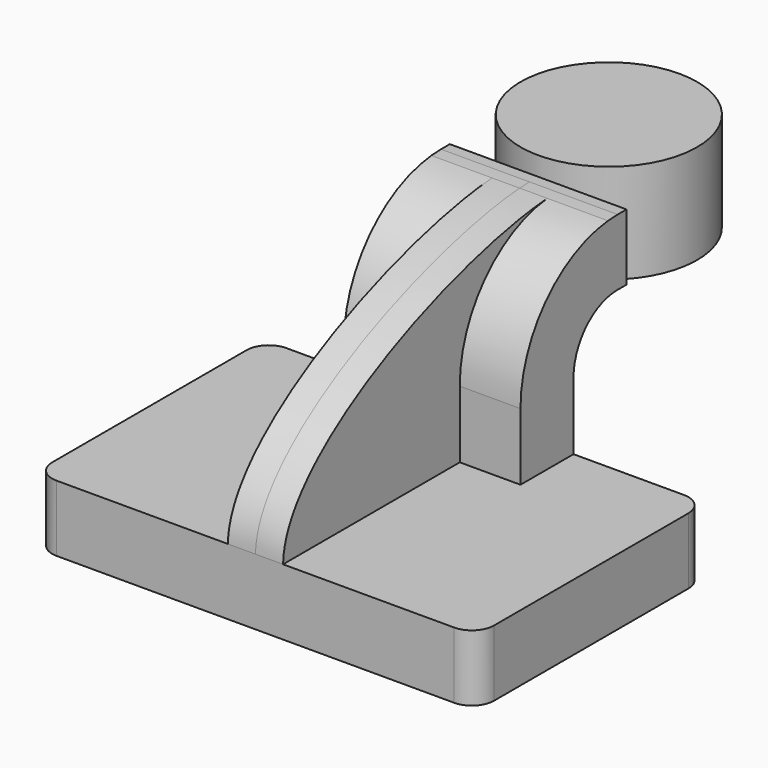
from build123d import *

# Parameters (mm, degrees)
F1_DEPTH = 25.4
F2_DEPTH = 63.5
F3_DEPTH = 7.9375
F0_W     = 25.4
F0_H     = 28.575
F5_R     = 6.35


with BuildPart() as f1:
    # F0 (on Right) → F1 (new body, symmetric)
    with BuildSketch(Plane.YZ):
        with BuildLine():
            Line((22.225, 28.802917), (22.225, 9.525))
            Line((22.225, 9.525), (41.275, 9.525))
            Line((41.275, 9.525), (41.275, 28.802917))
            ThreePointArc((41.275, 28.802917), (45.92468, 40.028237), (57.15, 44.677917))
            Line((57.15, 44.677917), (60.325, 44.677917))
            Line((60.325, 44.677917), (60.325, 63.727917))
            Line((60.325, 63.727917), (57.15, 63.727917))
            add(Edge.make_bspline(
                [(53.670772, 63.554185), (54.862475, 63.638486), (56.023398, 63.696653), (57.15, 63.727917)],
                knots=[108.596389, 108.596389, 108.596389, 108.596389, 112.362969, 112.362969, 112.362969, 112.362969], degree=3))
            ThreePointArc((53.670772, 63.554185), (31.253401, 52.236265), (22.225, 28.802917))
        make_face()
    extrude(amount=F1_DEPTH, both=True)

    # F0 (on Right) → F2 (join, symmetric)
    with BuildSketch(Plane.YZ):
        Polygon((22.225, 9.525), (-41.275, 9.525), (-41.275, -9.525), (41.275, -9.525), (41.275, 9.525), align=None)
    extrude(amount=F2_DEPTH, both=True)

    # F0 (on Right) → F3 (join, symmetric)
    with BuildSketch(Plane.YZ):
        with BuildLine():
            add(Edge.make_bspline(
                [(-41.275, 9.525), (-40.632498, 36.969281), (19.312104, 61.123658), (53.670772, 63.554185)],
                knots=[0, 0, 0, 0, 108.596389, 108.596389, 108.596389, 108.596389], degree=3))
            Line((-41.275, 9.525), (22.225, 9.525))
            Line((22.225, 9.525), (22.225, 28.802917))
            ThreePointArc((22.225, 28.802917), (31.253401, 52.236265), (53.670772, 63.554185))
        make_face()
    extrude(amount=F3_DEPTH, both=True)

    # F0 (on Right) → F4 (revolve)
    with BuildSketch(Plane.YZ):
        with Locations((98.425, 54.876269)):
            Rectangle(F0_W, F0_H)
    revolve(axis=Axis((0, 85.725, 54.876269), (0, 0, 1)))

    # F5
    f5_edges = [f1.edges().sort_by_distance(p)[0] for p in [
        (63.5, -41.275, 0),
        (63.5, 41.275, 0),
        (-63.5, 41.275, 0),
        (-63.5, -41.275, 0),
    ]]
    fillet(f5_edges, radius=F5_R)


solid = f1.part
